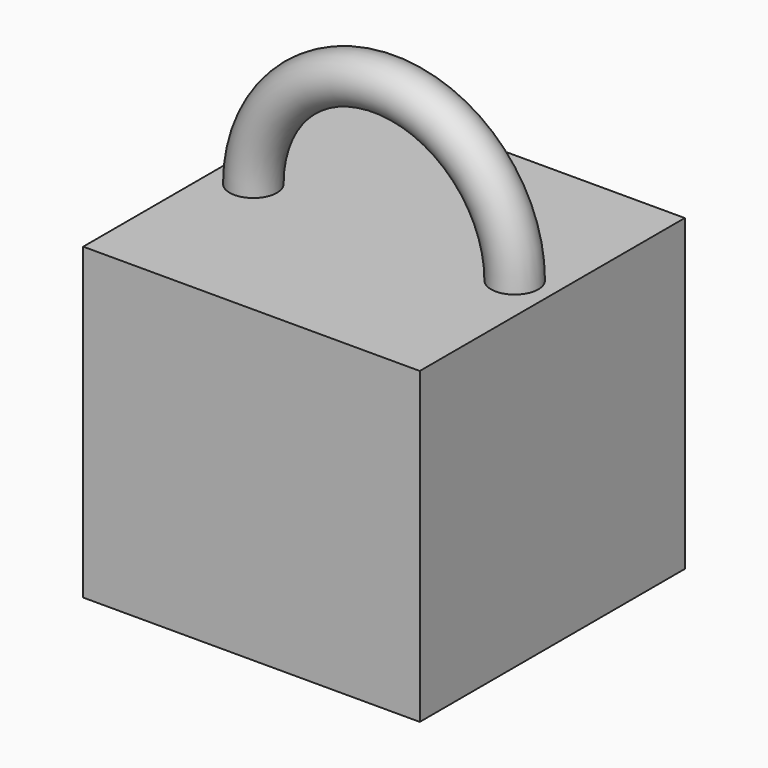
from build123d import *

# Parameters (mm, degrees)
F1_R     = 9.824635
F0_W     = 69.863096
F0_H     = 137.526572
F3_DEPTH = 128.27


with BuildPart() as f2:
    # F1 (on Top) → F2 (revolve)
    with BuildSketch(Plane.XY):
        with Locations((54.264009, 0)):
            Circle(F1_R)
    revolve(axis=Axis((0, 0, 0), (0, -1, 0)))

    # F0 (on Top) → F3 (join)
    with BuildSketch(Plane.XY):
        with Locations((-34.931548, 0)):
            Rectangle(F0_W, F0_H)
        with Locations((34.931548, 0)):
            Rectangle(F0_W, F0_H)
    extrude(amount=-F3_DEPTH)


solid = f2.part
